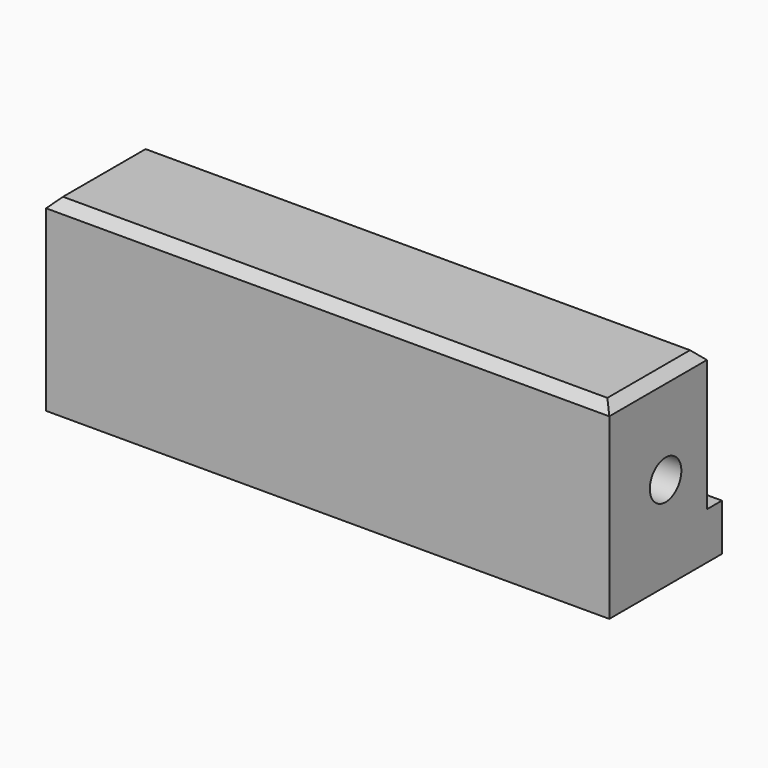
from build123d import *

# Parameters (mm, degrees)
F0_W     = 60
F0_H     = 15
F1_DEPTH = 5
F2_W     = 60
F2_H     = 13
F3_DEPTH = 15
F5_D     = 4.2
F5_DEPTH = 10.4
F5_TIP   = 1.2618073
F7_D     = 4.2
F7_DEPTH = 8
F7_TIP   = 1.2618073
F8_SIZE  = 1


with BuildPart() as f1:
    # F0 (on Top) → F1 (new body)
    with BuildSketch(Plane.XY):
        with Locations((30, 7.5)):
            Rectangle(F0_W, F0_H)
    extrude(amount=F1_DEPTH)

    # F2 (on face) → F3 (join)
    with BuildSketch(Plane.XY.offset(5)):
        with Locations((30, 6.5)):
            Rectangle(F2_W, F2_H)
    extrude(amount=F3_DEPTH)

    # F5
    with Locations(Plane.YZ.offset(60)):
        with Locations((7.5, 10)):
            Hole(F5_D / 2, depth=F5_DEPTH)
            with Locations((0, 0, -(F5_DEPTH + F5_TIP / 2))):  # 118° drill point
                Cone(0, F5_D / 2, F5_TIP, mode=Mode.SUBTRACT)

    # F7
    with Locations(Plane(origin=(0, 0, 0), x_dir=(0, -1, 0), z_dir=(-1, 0, 0))):
        with Locations((-7.5, 10)):
            Hole(F7_D / 2, depth=F7_DEPTH)
            with Locations((0, 0, -(F7_DEPTH + F7_TIP / 2))):  # 118° drill point
                Cone(0, F7_D / 2, F7_TIP, mode=Mode.SUBTRACT)

    # F8
    f8_edges = [f1.edges().sort_by_distance(p)[0] for p in [
        (30, 13, 20),
        (30, 0, 20),
        (0, 6.5, 20),
        (60, 6.5, 20),
    ]]
    chamfer(f8_edges, length=F8_SIZE)


solid = f1.part
